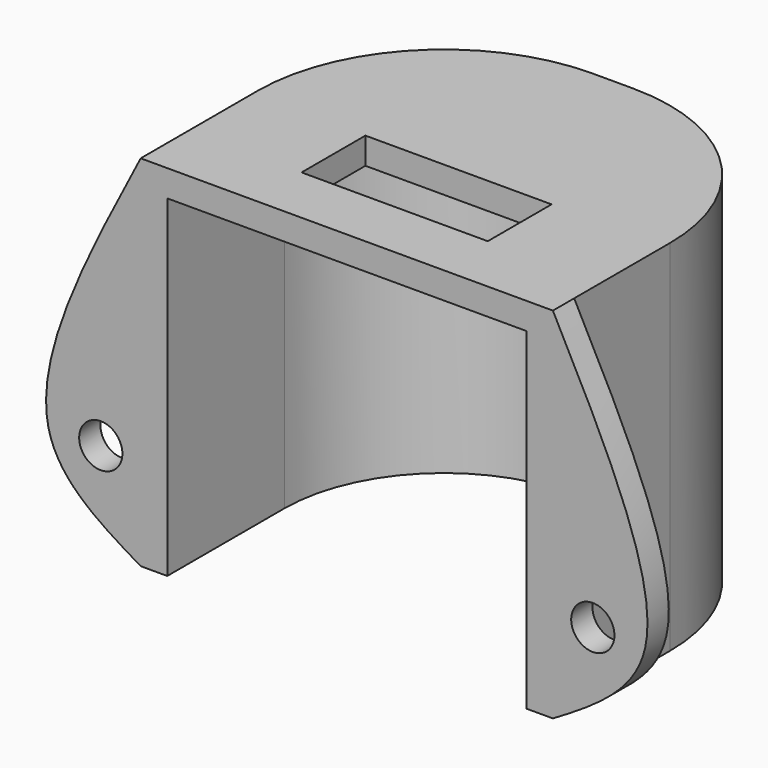
from build123d import *

# Parameters (mm, degrees)
F0_W     = 14
F0_H     = 6
F1_DEPTH = 2
F3_DEPTH = 25
F4_R     = 1.625
F5_DEPTH = 2


with BuildPart() as f1:
    # F0 (on Top) → F1 (new body)
    with BuildSketch(Plane.XY):
        with BuildLine():
            ThreePointArc((0, 11), (3.5147186258, 19.4852813742), (12, 23))
            Line((12, 23), (15, 23))
            ThreePointArc((15, 23), (23.4852813742, 19.4852813742), (27, 11))
            Line((27, 11), (27, 5))
            Line((27, 5), (27, 0))
            Line((27, 0), (29, 0))
            Line((29, 0), (29, 5))
            Line((29, 5), (29, 11))
            ThreePointArc((29, 11), (24.8994949366, 20.8994949366), (15, 25))
            Line((15, 25), (12, 25))
            ThreePointArc((12, 25), (2.1005050634, 20.8994949366), (-2, 11))
            Line((-2, 11), (-2, 5))
            Line((-2, 5), (-2, 0))
            Line((-2, 0), (0, 0))
            Line((0, 0), (0, 5))
            Line((0, 5), (0, 11))
        make_face()
        with BuildLine():
            Line((15, 23), (12, 23))
            ThreePointArc((12, 23), (3.5147186258, 19.4852813742), (0, 11))
            Line((0, 11), (0, 5))
            Line((0, 5), (0, 0))
            Line((0, 0), (27, 0))
            Line((27, 0), (27, 5))
            Line((27, 5), (27, 11))
            ThreePointArc((27, 11), (23.4852813742, 19.4852813742), (15, 23))
        make_face()
        with Locations((13.5, 7.5)):
            Rectangle(F0_W, F0_H, mode=Mode.SUBTRACT)
    extrude(amount=F1_DEPTH)

    # F2 (on face) → F3 (join)
    with BuildSketch(Plane(origin=(0, 0, 0), x_dir=(1, 0, 0), z_dir=(0, 0, -1))):
        with BuildLine():
            Line((0, -11), (0, 0))
            Line((0, 0), (-2, 0))
            Line((-2, 0), (-2, -11))
            ThreePointArc((-2, -11), (2.1005050634, -20.8994949366), (12, -25))
            Line((12, -25), (15, -25))
            ThreePointArc((15, -25), (24.8994949366, -20.8994949366), (29, -11))
            Line((29, -11), (29, 0))
            Line((29, 0), (27, 0))
            Line((27, 0), (27, -11))
            ThreePointArc((27, -11), (23.4852813742, -19.4852813742), (15, -23))
            Line((15, -23), (12, -23))
            ThreePointArc((12, -23), (3.5147186258, -19.4852813742), (0, -11))
        make_face()
    extrude(amount=F3_DEPTH)

    # F4 (on face) → F5 (join)
    with BuildSketch(Plane.XZ):
        with BuildLine():
            add(Edge.make_bspline(
                [(29, 2), (33.0137730771, -5.6907851712), (39.7482218864, -18.594653438), (32.0927595214, -23.1568861551), (29, -25)],
                knots=[0, 0, 0, 0, 0.5960061752, 1, 1, 1, 1], degree=3))
            Line((29, 2), (29, -25))
        make_face()
        with Locations((32, -18)):
            Circle(F4_R, mode=Mode.SUBTRACT)
        with BuildLine():
            Line((-2, -25), (-2, 2))
            add(Edge.make_bspline(
                [(-2, 2), (-6.0137730771, -5.6907851712), (-12.7482218864, -18.594653438), (-5.0927595214, -23.1568861551), (-2, -25)],
                knots=[0, 0, 0, 0, 0.5960061752, 1, 1, 1, 1], degree=3))
        make_face()
        with Locations((-5, -18)):
            Circle(F4_R, mode=Mode.SUBTRACT)
    extrude(amount=-F5_DEPTH)


solid = f1.part
